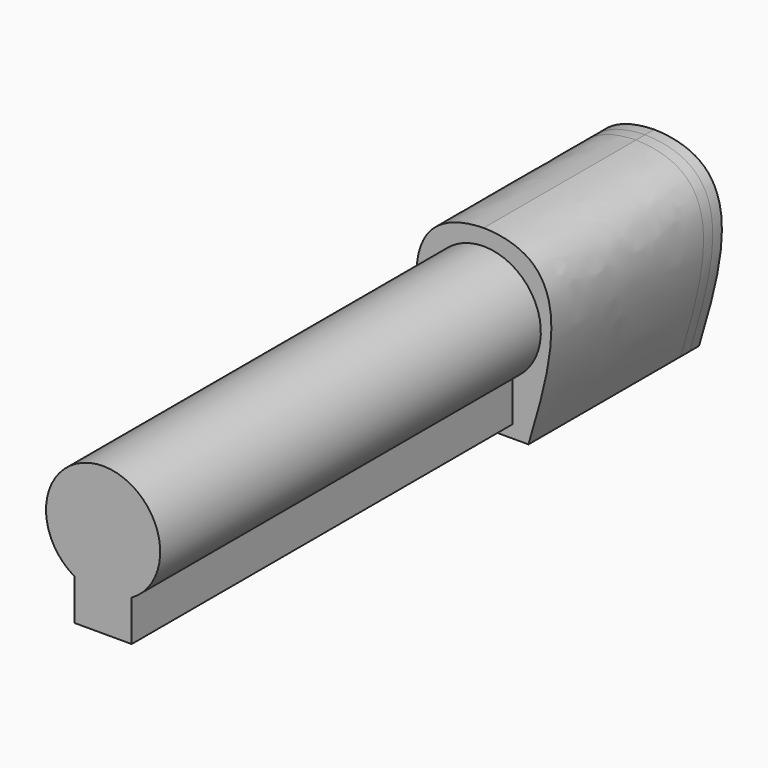
from build123d import *

# Parameters (mm, degrees)
F1_DEPTH = 3.048
F3_DEPTH = 3.048
F5_DEPTH = 50.8
F7_DEPTH = 25.4
F8_DEPTH = 152.4


with BuildPart() as f1:
    # F0 (on Front) → F1 (new body)
    with BuildSketch(Plane.XZ):
        with BuildLine():
            Line((-5.842, -16.256), (-5.842, 16.256))
            Line((-5.842, 16.256), (5.842, 16.256))
            Line((5.842, 16.256), (5.842, -16.256))
            Line((5.842, -16.256), (9.398, -16.256))
            Line((9.398, -16.256), (9.398, -21.082))
            Line((9.398, -21.082), (11.938, -21.082))
            add(Edge.make_bspline(
                [(11.938, -21.082), (18.554886803, 1.1973426444), (25.400293991, 25.156263262), (0, 25.908)],
                knots=[0, 0, 0, 0, 48.482738619, 48.482738619, 48.482738619, 48.482738619], degree=3))
            add(Edge.make_bspline(
                [(-11.938, -21.082), (-18.554886803, 1.1973426444), (-25.400293991, 25.156263262), (0, 25.908)],
                knots=[0, 0, 0, 0, 48.482738619, 48.482738619, 48.482738619, 48.482738619], degree=3))
            Line((-11.938, -21.082), (-9.398, -21.082))
            Line((-9.398, -21.082), (-9.398, -16.256))
            Line((-9.398, -16.256), (-5.842, -16.256))
        make_face()
    extrude(amount=F1_DEPTH)

    # F2 (on face) → F3 (join)
    with BuildSketch(Plane.XZ.offset(3.048)):
        with BuildLine():
            Line((-10.922, -16.256), (-10.922, 21.336))
            Line((-10.922, 21.336), (10.922, 21.336))
            Line((10.922, 21.336), (10.922, -16.256))
            Line((10.922, -16.256), (9.398, -16.256))
            Line((9.398, -16.256), (9.398, -21.082))
            Line((9.398, -21.082), (11.938, -21.082))
            add(Edge.make_bspline(
                [(11.938, -21.082), (18.554886803, 1.1973426444), (25.400293991, 25.156263262), (0, 25.908)],
                knots=[0, 0, 0, 0, 48.482738619, 48.482738619, 48.482738619, 48.482738619], degree=3))
            add(Edge.make_bspline(
                [(-11.938, -21.082), (-18.554886803, 1.1973426444), (-25.400293991, 25.156263262), (0, 25.908)],
                knots=[0, 0, 0, 0, 48.482738619, 48.482738619, 48.482738619, 48.482738619], degree=3))
            Line((-11.938, -21.082), (-9.398, -21.082))
            Line((-9.398, -21.082), (-9.398, -16.256))
            Line((-9.398, -16.256), (-10.922, -16.256))
        make_face()
    extrude(amount=F3_DEPTH)

    # F4 (on face) → F5 (join)
    with BuildSketch(Plane.XZ.offset(6.096)):
        with BuildLine():
            Line((-11.938, -21.082), (-9.398, -21.082))
            Line((-9.398, -21.082), (-9.398, -16.256))
            Line((-9.398, -16.256), (-10.922, -16.256))
            Line((-10.922, -16.256), (-10.922, 21.336))
            Line((-10.922, 21.336), (10.922, 21.336))
            Line((10.922, 21.336), (10.922, -16.256))
            Line((10.922, -16.256), (9.398, -16.256))
            Line((9.398, -16.256), (9.398, -21.082))
            Line((9.398, -21.082), (11.938, -21.082))
            add(Edge.make_bspline(
                [(11.938, -21.082), (18.554886803, 1.1973426444), (25.400293991, 25.156263262), (0, 25.908)],
                knots=[0, 0, 0, 0, 48.482738619, 48.482738619, 48.482738619, 48.482738619], degree=3))
            add(Edge.make_bspline(
                [(-11.938, -21.082), (-18.554886803, 1.1973426444), (-25.400293991, 25.156263262), (0, 25.908)],
                knots=[0, 0, 0, 0, 48.482738619, 48.482738619, 48.482738619, 48.482738619], degree=3))
        make_face()
        Polygon((-9.398, -16.256), (-9.398, -21.082), (9.398, -21.082), (9.398, -16.256), (10.922, -16.256), (10.922, 21.336), (-10.922, 21.336), (-10.922, -16.256), align=None)
    extrude(amount=F5_DEPTH)

    # F6 (on face) → F7 (cut)
    with BuildSketch(Plane.XZ.offset(56.896)):
        with BuildLine():
            Line((7.62, -17.78), (7.62, -6.8482271537))
            ThreePointArc((7.62, -6.8482271537), (0, 21.59), (-7.62, -6.8482271537))
            Line((-7.62, -6.8482271537), (-7.62, -17.78))
            Line((-7.62, -17.78), (7.62, -17.78))
        make_face()
    extrude(amount=-F7_DEPTH, mode=Mode.SUBTRACT)


with BuildPart() as f8:
    # F8 (new): a face of the model
    f8_faces = [f1.part.faces().sort_by_distance(p)[0] for p in [
        (0, -31.496, 3.1342608051),
    ]]
    extrude(f8_faces, amount=F8_DEPTH)


solid = Compound([f1.part, f8.part])
